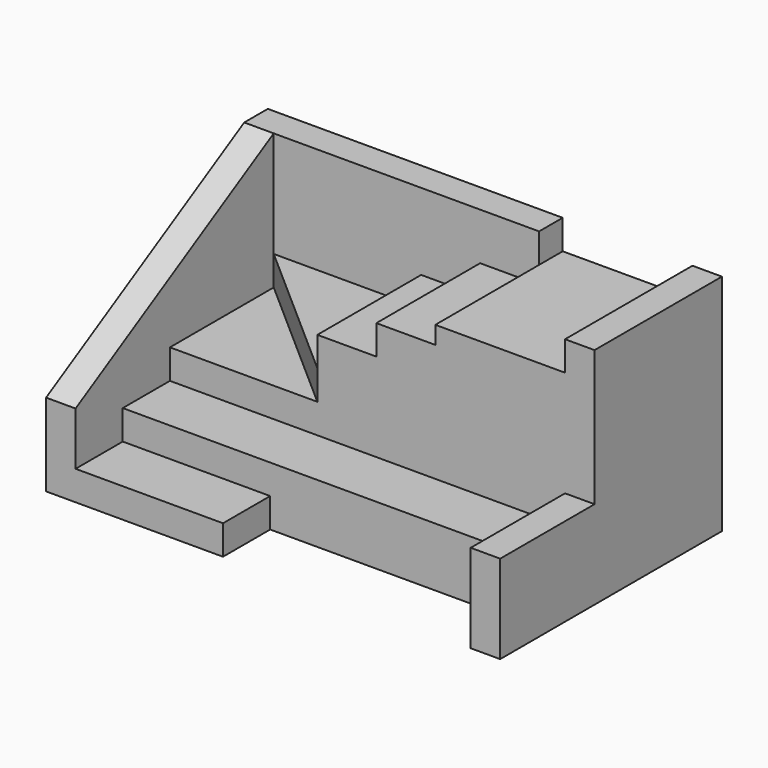
from build123d import *

# Parameters (mm, degrees)
F1_DEPTH  = 38
F3_DEPTH  = 25
F4_DEPTH  = 38
F0_W      = 25
F0_H      = 10
F5_DEPTH  = 5
F6_DEPTH  = 10
F7_DEPTH  = 15
F0_W_2    = 5
F0_H_2    = 27
F8_DEPTH  = 38
F9_DEPTH  = 33
F10_DEPTH = 15
F11_DEPTH = 20
F0_W_3    = 10
F0_H_3    = 22
F12_DEPTH = 25
F13_DEPTH = 30


with BuildPart() as f1:
    # F0 (on Top) → F1 (new body)
    with BuildSketch(Plane.XY):
        Polygon((-45, 18.8800000995), (-50, 18.8800000995), (-50, -23.1199999005), (-45, -23.1199999005), (-45, -13.1199999005), (-45, -3.1199999005), align=None)
    extrude(amount=F1_DEPTH)

    # F2 (on face) → F3 (cut)
    with BuildSketch(Plane.YZ.offset(-45)):
        Polygon((-23.1199999005, 14), (18.8800000995, 38), (-23.1199999005, 38), align=None)
    extrude(amount=-F3_DEPTH, mode=Mode.SUBTRACT)

    # F0 (on Top) → F4 (join)
    with BuildSketch(Plane.XY):
        Polygon((0, 23.8800000995), (-50, 23.8800000995), (-50, 18.8800000995), (-45, 18.8800000995), (-20, 18.8800000995), (-10, 18.8800000995), (0, 18.8800000995), align=None)
    extrude(amount=F4_DEPTH)

    # F0 (on Top) → F5 (join)
    with BuildSketch(Plane.XY):
        with Locations((-32.5, -18.1199999005)):
            Rectangle(F0_W, F0_H)
    extrude(amount=F5_DEPTH)

    # F0 (on Top) → F6 (join)
    with BuildSketch(Plane.XY):
        Polygon((22, -13.1199999005), (22, -3.1199999005), (0, -3.1199999005), (-10, -3.1199999005), (-20, -3.1199999005), (-45, -3.1199999005), (-45, -13.1199999005), (-20, -13.1199999005), align=None)
    extrude(amount=F6_DEPTH)

    # F0 (on Top) → F7 (join)
    with BuildSketch(Plane.XY):
        Polygon((27, -3.1199999005), (22, -3.1199999005), (22, -13.1199999005), (22, -23.1199999005), (27, -23.1199999005), align=None)
    extrude(amount=F7_DEPTH)

    # F0 (on Top) → F8 (join)
    with BuildSketch(Plane.XY):
        with Locations((24.5, 10.3800000995)):
            Rectangle(F0_W_2, F0_H_2)
    extrude(amount=F8_DEPTH)

    # F0 (on Top) → F9 (join)
    with BuildSketch(Plane.XY):
        Polygon((22, 23.8800000995), (0, 23.8800000995), (0, 18.8800000995), (0, -3.1199999005), (22, -3.1199999005), align=None)
    extrude(amount=F9_DEPTH)

    # F0 (on Top) → F10 (join)
    with BuildSketch(Plane.XY):
        Polygon((-20, -3.1199999005), (-45, 18.8800000995), (-45, -3.1199999005), align=None)
    extrude(amount=F10_DEPTH)

    # F0 (on Top) → F11 (join)
    with BuildSketch(Plane.XY):
        Polygon((-20, 18.8800000995), (-45, 18.8800000995), (-20, -3.1199999005), align=None)
    extrude(amount=F11_DEPTH)

    # F0 (on Top) → F12 (join)
    with BuildSketch(Plane.XY):
        with Locations((-15, 7.8800000995)):
            Rectangle(F0_W_3, F0_H_3)
    extrude(amount=F12_DEPTH)

    # F0 (on Top) → F13 (join)
    with BuildSketch(Plane.XY):
        with Locations((-5, 7.8800000995)):
            Rectangle(F0_W_3, F0_H_3)
    extrude(amount=F13_DEPTH)


solid = f1.part
